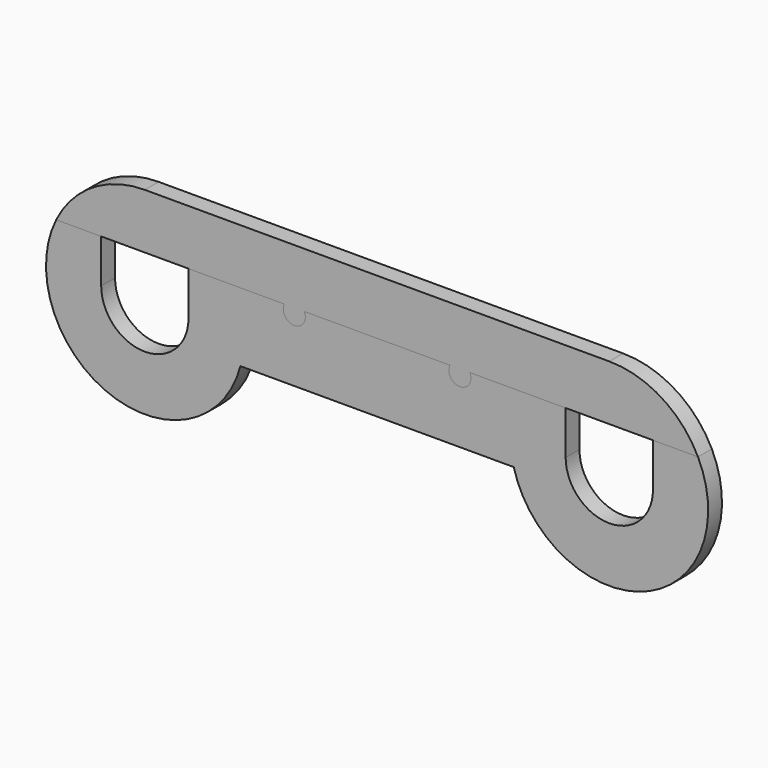
from build123d import *

# Parameters (mm, degrees)
F1_DEPTH = 11.938
F2_DEPTH = 11.938


with BuildPart() as f1:
    # F0 (on Front) → F1 (new body)
    with BuildSketch(Plane.XZ):
        with BuildLine():
            Line((-61.221377, 30.1371), (-30.1371, 30.1371))
            Line((-30.1371, 30.1371), (0, 30.1371))
            Line((0, 30.1371), (30.1371, 30.1371))
            Line((30.1371, 30.1371), (96.235068, 30.1371))
            ThreePointArc((96.235068, 30.1371), (103.1621, 19.3421), (110.089132, 30.1371))
            Line((110.089132, 30.1371), (210.535068, 30.1371))
            ThreePointArc((210.535068, 30.1371), (217.4621, 19.3421), (224.389132, 30.1371))
            Line((224.389132, 30.1371), (290.4871, 30.1371))
            Line((290.4871, 30.1371), (350.7613, 30.1371))
            Line((350.7613, 30.1371), (381.845577, 30.1371))
            ThreePointArc((381.845577, 30.1371), (356.678558, 57.934317), (320.6242, 68.2371))
            Line((320.6242, 68.2371), (0, 68.2371))
            ThreePointArc((0, 68.2371), (-36.054358, 57.934317), (-61.221377, 30.1371))
        make_face()
    extrude(amount=F1_DEPTH)


with BuildPart() as f2:
    # F0 (on Front) → F2 (new body)
    with BuildSketch(Plane.XZ):
        with BuildLine():
            ThreePointArc((30.1371, 0), (0, -30.1371), (-30.1371, 0))
            Line((-30.1371, 0), (-30.1371, 30.1371))
            Line((-30.1371, 30.1371), (-61.221377, 30.1371))
            ThreePointArc((-61.221377, 30.1371), (-23.905381, -63.912711), (65.97158, -17.4371))
            Line((65.97158, -17.4371), (160.3121, -17.4371))
            Line((160.3121, -17.4371), (254.65262, -17.4371))
            ThreePointArc((254.65262, -17.4371), (344.529581, -63.912711), (381.845577, 30.1371))
            Line((381.845577, 30.1371), (350.7613, 30.1371))
            Line((350.7613, 30.1371), (350.7613, 0))
            ThreePointArc((350.7613, 0), (320.6242, -30.1371), (290.4871, 0))
            Line((290.4871, 0), (290.4871, 30.1371))
            Line((290.4871, 30.1371), (224.389132, 30.1371))
            ThreePointArc((224.389132, 30.1371), (217.4621, 19.3421), (210.535068, 30.1371))
            Line((210.535068, 30.1371), (110.089132, 30.1371))
            ThreePointArc((110.089132, 30.1371), (103.1621, 19.3421), (96.235068, 30.1371))
            Line((96.235068, 30.1371), (30.1371, 30.1371))
            Line((30.1371, 30.1371), (30.1371, 0))
        make_face()
    extrude(amount=F2_DEPTH)


solid = Compound([f1.part, f2.part])
